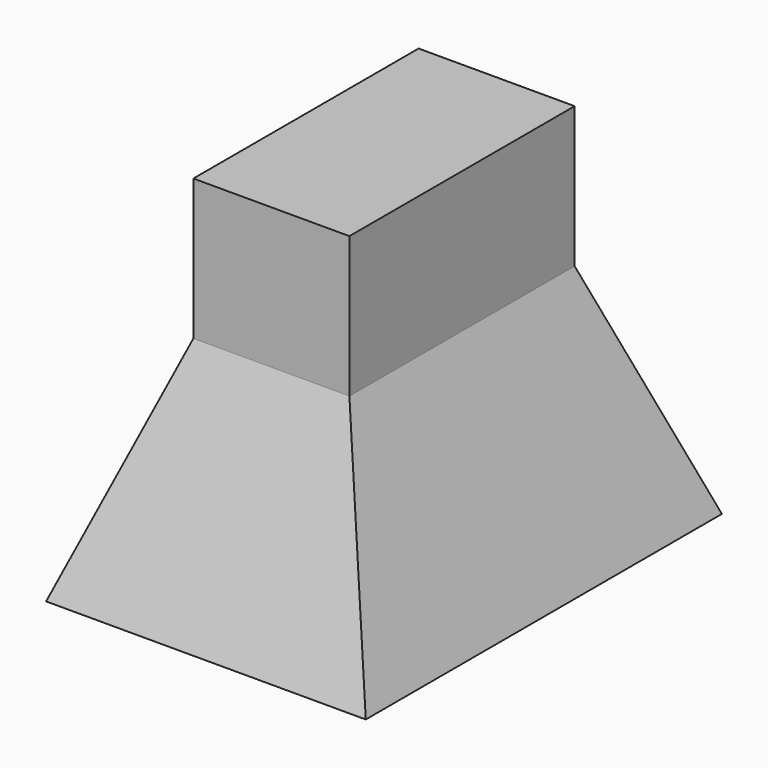
from build123d import *

# Parameters (mm, degrees)
F0_W          = 84.4335490838
F0_H          = 152.3446664214
F1_DEPTH      = 76.2
F1_DEPTH_BACK = 121.666
F1_TAPER_BACK = -20


with BuildPart() as f1:
    # F0 (on Top) → F1 (new body, two sides)
    with BuildSketch(Plane.XY) as f1_sk:
        with Locations((33.7879988365, -0.1448951662)):
            Rectangle(F0_W, F0_H)
    extrude(amount=F1_DEPTH)
    extrude(f1_sk.sketch, amount=-F1_DEPTH_BACK, taper=F1_TAPER_BACK)


solid = f1.part
